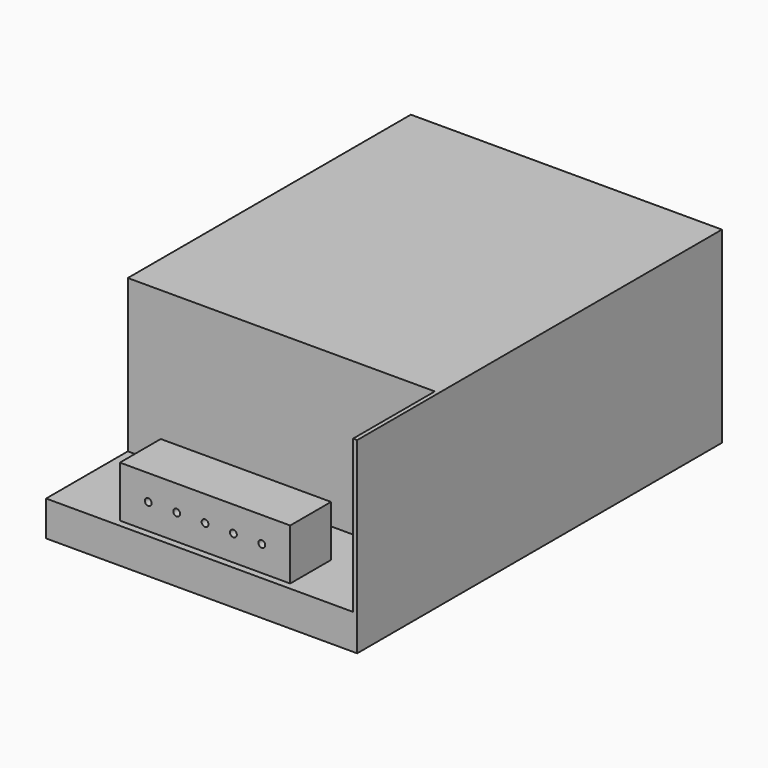
from build123d import *

# Parameters (mm, degrees)
F0_W     = 58
F0_H     = 85
F1_DEPTH = 35
F2_W     = 57.238
F2_H     = 19.05
F3_DEPTH = 28.448
F4_W     = 31.75
F4_H     = 9.525
F5_DEPTH = 9.525
F7_D     = 1.27
F7_DEPTH = 5.08
F7_TIP   = 0.3815464931


with BuildPart() as f1:
    # F0 (on Top) → F1 (new body)
    with BuildSketch(Plane.XY):
        Rectangle(F0_W, F0_H)
    extrude(amount=F1_DEPTH)

    # F2 (on face) → F3 (cut)
    with BuildSketch(Plane.XY.offset(35)):
        with Locations((-0.381, -32.975)):
            Rectangle(F2_W, F2_H)
    extrude(amount=-F3_DEPTH, mode=Mode.SUBTRACT)

    # F4 (on face) → F5 (join)
    with BuildSketch(Plane.XY.offset(6.552)):
        with Locations((-0.381, -36.4675)):
            Rectangle(F4_W, F4_H)
    extrude(amount=F5_DEPTH)

    # F7
    with Locations(Plane.XZ.offset(41.23)):
        with Locations((-10.9643333333, 11.3145), (-5.6726666667, 11.3145), (-0.381, 11.3145), (4.9106666667, 11.3145), (10.2023333333, 11.3145)):
            Hole(F7_D / 2, depth=F7_DEPTH)
            with Locations((0, 0, -(F7_DEPTH + F7_TIP / 2))):  # 118° drill point
                Cone(0, F7_D / 2, F7_TIP, mode=Mode.SUBTRACT)


solid = f1.part
